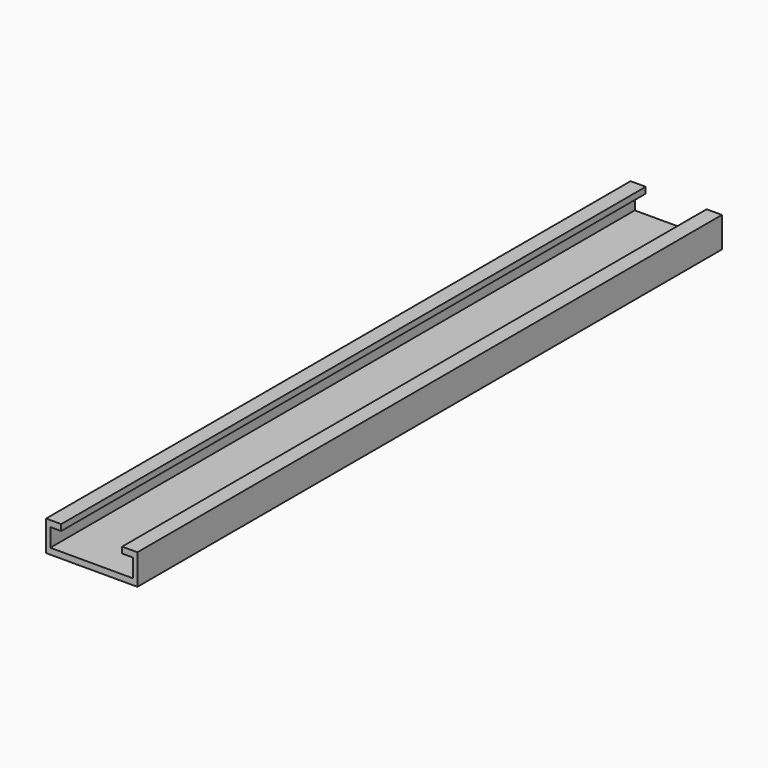
from build123d import *

# Parameters (mm, degrees)
F0_W     = 19.05
F0_H     = 152.4
F1_DEPTH = 6.35
F2_W     = 12.7
F2_H     = 152.4
F3_DEPTH = 5.08
F4_W     = 2.286
F4_H     = 3.81
F5_DEPTH = 152.4


with BuildPart() as f1:
    # F0 (on Top) → F1 (new body)
    with BuildSketch(Plane.XY):
        with Locations((-26.88839, 35.860999)):
            Rectangle(F0_W, F0_H)
    extrude(amount=F1_DEPTH)

    # F2 (on face) → F3 (cut)
    with BuildSketch(Plane.XY.offset(6.35)):
        with Locations((-26.903349, 35.860999)):
            Rectangle(F2_W, F2_H)
    extrude(amount=-F3_DEPTH, mode=Mode.SUBTRACT)

    # F4 (on face) → F5 (cut)
    with BuildSketch(Plane.XZ.offset(40.339001)):
        with Locations((-34.396349, 3.175)):
            Rectangle(F4_W, F4_H)
        with Locations((-19.410349, 3.175)):
            Rectangle(F4_W, F4_H)
    extrude(amount=-F5_DEPTH, mode=Mode.SUBTRACT)


solid = f1.part
